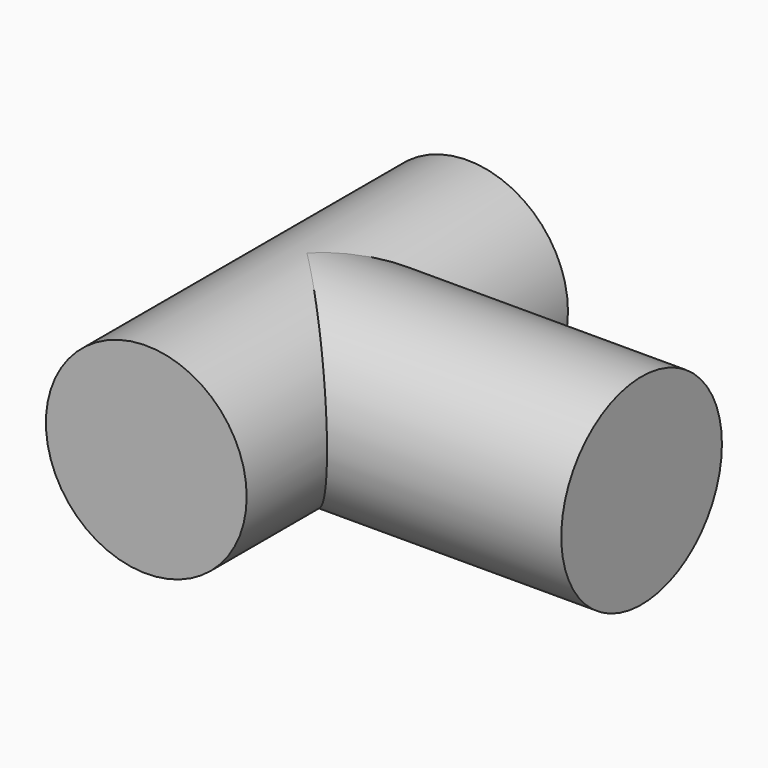
from build123d import *

# Parameters (mm, degrees)
F0_R     = 15
F1_DEPTH = 30
F2_R     = 15
F3_DEPTH = 50


with BuildPart() as f1:
    # F0 (on Front) → F1 (new body, symmetric)
    with BuildSketch(Plane.XZ):
        Circle(F0_R)
    extrude(amount=F1_DEPTH, both=True)

    # F2 (on Right) → F3 (join)
    with BuildSketch(Plane.YZ):
        Circle(F2_R)
    extrude(amount=F3_DEPTH)


solid = f1.part
